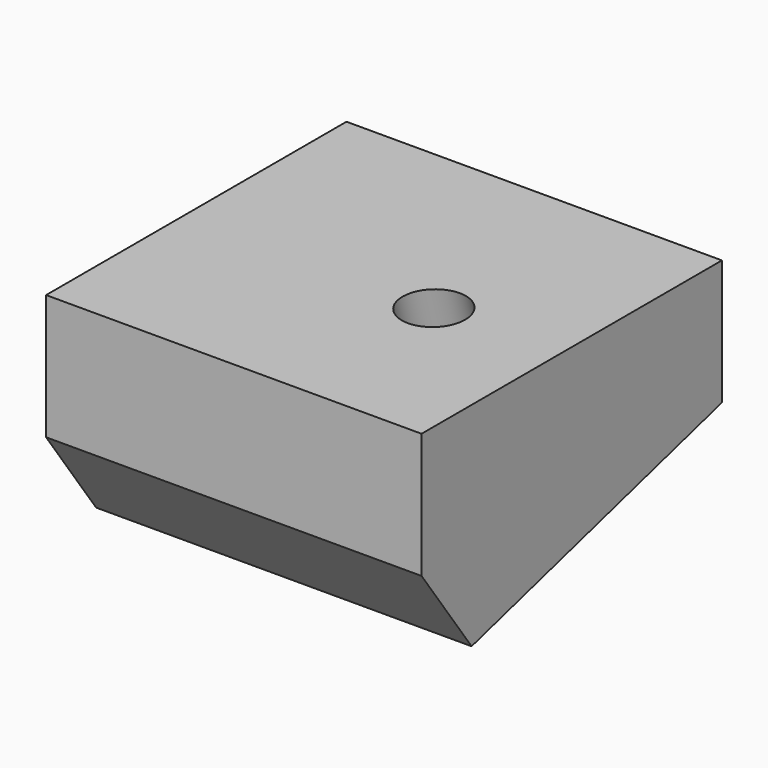
from build123d import *

# Parameters (mm, degrees)
F1_DEPTH = 152.4
F2_R     = 12.7
F3_DEPTH = 74.7069606938
F5_DEPTH = 76.2


with BuildPart() as f1:
    # F0 (on Right) → F1 (new body)
    with BuildSketch(Plane.YZ):
        Polygon((152.4, 50.8), (0, 50.8), (0, 0), (25.4, -35.4715141967), (152.4, 0), align=None)
    extrude(amount=F1_DEPTH)

    # F2 (on face) → F3 (cut, through all)
    with BuildSketch(Plane(origin=(0, 11.0284395164, -39.4855379111), x_dir=(1, 0, 0), z_dir=(0, 0.2690075997, -0.9631380541))):
        with Locations((101.6, -80.8519195663)):
            Circle(F2_R)
    extrude(amount=-F3_DEPTH, mode=Mode.SUBTRACT)

    # F4 (on face) → F5 (cut)
    with BuildSketch(Plane(origin=(0, 0, 0), x_dir=(0, -1, 0), z_dir=(-1, 0, 0))):
        Polygon((-152.4, 0), (-101.6, -14.1886056787), (-101.6, 34.35741062), (-152.4, 25.4), align=None)
    extrude(amount=-F5_DEPTH, mode=Mode.SUBTRACT)


solid = f1.part
